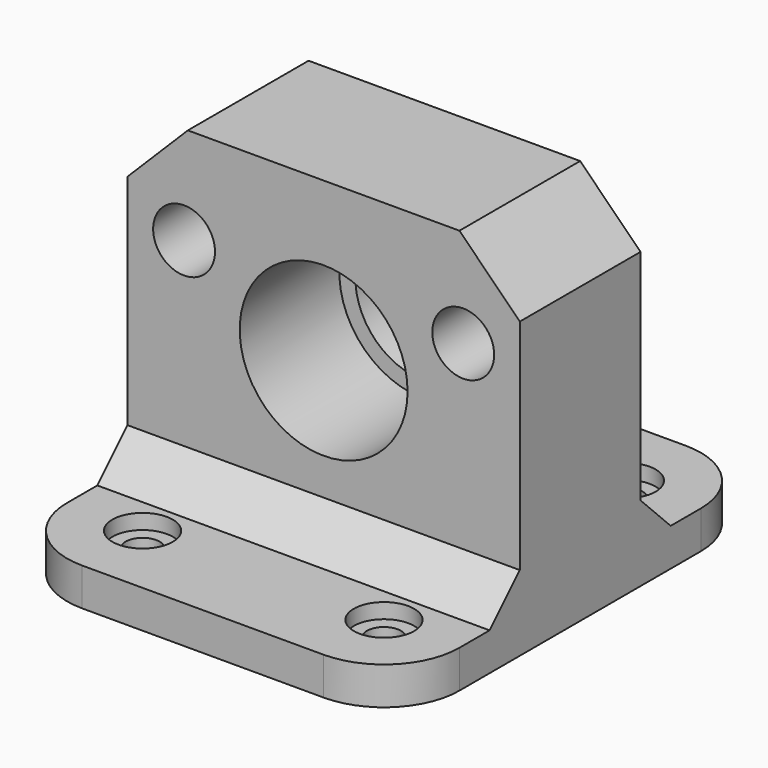
from build123d import *

# Parameters (mm, degrees)
F0_W      = 52
F0_H      = 42
F1_DEPTH  = 10
F2_W      = 52
F2_H      = 5
F3_DEPTH  = 30
F4_R      = 9
F5_DEPTH  = 40.001
F6_R      = 11.125
F6_R_2    = 4.1
F7_DEPTH  = 16.5
F8_R      = 2.25
F9_DEPTH  = 5.001
F10_R     = 4
F11_DEPTH = 2
F12_SIZE  = 8
F13_SIZE  = 5
F14_R     = 10


with BuildPart() as f1:
    # F0 (on Front) → F1 (new body, symmetric)
    with BuildSketch(Plane.XZ):
        Rectangle(F0_W, F0_H)
    extrude(amount=F1_DEPTH, both=True)

    # F2 (on Front) → F3 (join, symmetric)
    with BuildSketch(Plane.XZ):
        with Locations((0, -23.5)):
            Rectangle(F2_W, F2_H)
    extrude(amount=F3_DEPTH, both=True)

    # F4 (on face) → F5 (cut, through all)
    with BuildSketch(Plane.XZ.offset(10)):
        Circle(F4_R)
    extrude(amount=-F5_DEPTH, mode=Mode.SUBTRACT)

    # F6 (on face) → F7 (cut)
    with BuildSketch(Plane.XZ.offset(10)):
        Circle(F6_R)
        with Locations((-18.5, 8)):
            Circle(F6_R_2)
        with Locations((18.5, 8)):
            Circle(F6_R_2)
    extrude(amount=-F7_DEPTH, mode=Mode.SUBTRACT)

    # F8 (on face) → F9 (cut, through all)
    with BuildSketch(Plane.XY.offset(-21)):
        with Locations((-16, 20)):
            Circle(F8_R)
        with Locations((16, 20)):
            Circle(F8_R)
        with Locations((16, -20)):
            Circle(F8_R)
        with Locations((-16, -20)):
            Circle(F8_R)
    extrude(amount=-F9_DEPTH, mode=Mode.SUBTRACT)

    # F10 (on face) → F11 (cut)
    with BuildSketch(Plane.XY.offset(-21)):
        with Locations((-16, 20)):
            Circle(F10_R)
        with Locations((16, 20)):
            Circle(F10_R)
        with Locations((-16, -20)):
            Circle(F10_R)
        with Locations((16, -20)):
            Circle(F10_R)
    extrude(amount=-F11_DEPTH, mode=Mode.SUBTRACT)

    # F12
    f12_edges = [f1.edges().sort_by_distance(p)[0] for p in [
        (-26, 0, 21),
        (26, 0, 21),
    ]]
    chamfer(f12_edges, length=F12_SIZE)

    # F13
    f13_edges = [f1.edges().sort_by_distance(p)[0] for p in [
        (0, -10, -21),
        (0, 10, -21),
    ]]
    chamfer(f13_edges, length=F13_SIZE)

    # F14
    f14_edges = [f1.edges().sort_by_distance(p)[0] for p in [
        (26, 30, -23.5),
        (-26, 30, -23.5),
        (26, -30, -23.5),
        (-26, -30, -23.5),
    ]]
    fillet(f14_edges, radius=F14_R)


solid = f1.part
